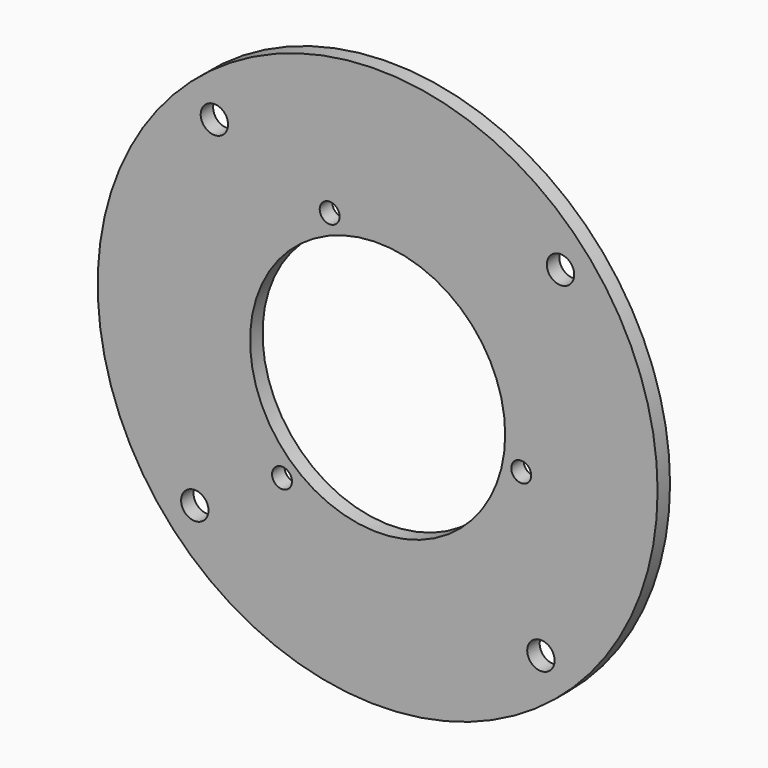
from build123d import *

# Parameters (mm, degrees)
F0_R     = 57.15
F1_DEPTH = 3.175
F2_R     = 2.794
F3_DEPTH = 25.4
F4_R     = 26.035
F4_R_2   = 2.032
F5_DEPTH = 25.4


with BuildPart() as f1:
    # F0 (on Front) → F1 (new body)
    with BuildSketch(Plane.XZ):
        Circle(F0_R)
    extrude(amount=F1_DEPTH)

    # F2 (on face) → F3 (cut)
    with BuildSketch(Plane.XZ.offset(3.175)):
        with Locations((-33.326707, 37.324684)):
            Circle(F2_R)
        with Locations((-37.324684, -33.326707)):
            Circle(F2_R)
        with Locations((33.326707, -37.324684)):
            Circle(F2_R)
        with Locations((37.324684, 33.326707)):
            Circle(F2_R)
    extrude(amount=-F3_DEPTH, mode=Mode.SUBTRACT)

    # F4 (on face) → F5 (cut)
    with BuildSketch(Plane.XZ.offset(3.175)):
        Circle(F4_R)
        with Locations((-9.790665, 28.193384)):
            Circle(F4_R_2)
        with Locations((-19.520854, -22.575657)):
            Circle(F4_R_2)
        with Locations((29.311519, -5.617728)):
            Circle(F4_R_2)
    extrude(amount=-F5_DEPTH, mode=Mode.SUBTRACT)


solid = f1.part
